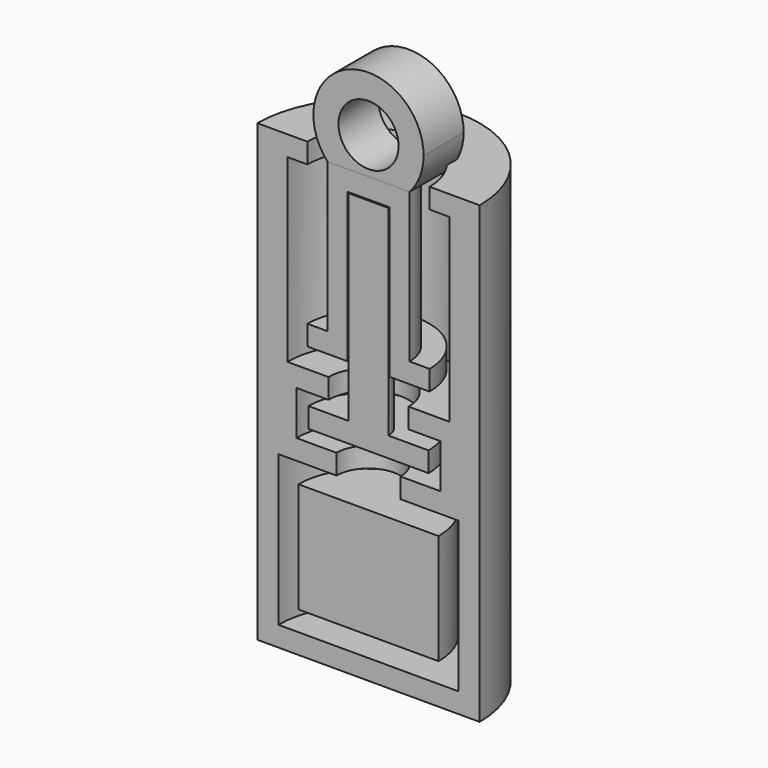
from build123d import *

# Parameters (mm, degrees)
F0_W     = 1
F0_H     = 10
F1_ANGLE = 180
F0_R     = 1.5
F2_DEPTH = 2.5


with BuildPart() as f1:
    # F0 (on Front) → F1 (revolve)
    with BuildSketch(Plane.XZ):
        Polygon((3.5, -3.1), (0.6, -3.1), (0, -3.1), (0, -8.6), (3.5, -8.6), align=None)
        Polygon((3, -0.5), (3, 0.5), (1, 0.5), (0, 0.5), (0, -0.5), (0.6, -0.5), align=None)
        with Locations((0.5, 5.5)):
            Rectangle(F0_W, F0_H)
        with BuildLine():
            Line((0, 10.63303), (0, 10.55))
            Line((0, 10.55), (1.05, 10.55))
            Line((1.05, 10.55), (1.05, 3.1))
            Line((1.05, 3.1), (3.05, 3.1))
            Line((3.05, 3.1), (3.05, 4.1))
            Line((3.05, 4.1), (2.05, 4.1))
            Line((2.05, 4.1), (2.05, 11.55))
            ThreePointArc((2.05, 11.55), (1.122868, 10.872718), (0, 10.63303))
        make_face()
        Polygon((4.5, -9.6), (0, -9.6), (0, -10.6), (5.55, -10.6), (5.55, 12.1), (3.05, 12.1), (3.05, 11.1), (4.05, 11.1), (4.05, 2.1), (2, 2.1), (2, 1.1), (3.6, 1.1), (3.6, -1.1), (1.6, -1.1), (1.6, -2.1), (4.5, -2.1), align=None)
        with BuildLine():
            Line((0, 11.55), (0, 10.63303))
            ThreePointArc((0, 10.63303), (1.122868, 10.872718), (2.05, 11.55))
            Line((2.05, 11.55), (0, 11.55))
        make_face()
    revolve(axis=Axis((0, 0, 0.475), (0, 0, 1)), revolution_arc=F1_ANGLE)


with BuildPart() as f2:
    # F0 (on Front) → F2 (new body)
    with BuildSketch(Plane.XZ):
        with BuildLine():
            ThreePointArc((2.75, 13.38303), (-0.981071, 15.952077), (-2.05, 11.55))
            Line((-2.05, 11.55), (0, 11.55))
            Line((0, 11.55), (2.05, 11.55))
            ThreePointArc((2.05, 11.55), (2.569047, 12.401959), (2.75, 13.38303))
        make_face()
        with Locations((0, 13.38303)):
            Circle(F0_R, mode=Mode.SUBTRACT)
    extrude(amount=-F2_DEPTH)


solid = Compound([f1.part, f2.part])
